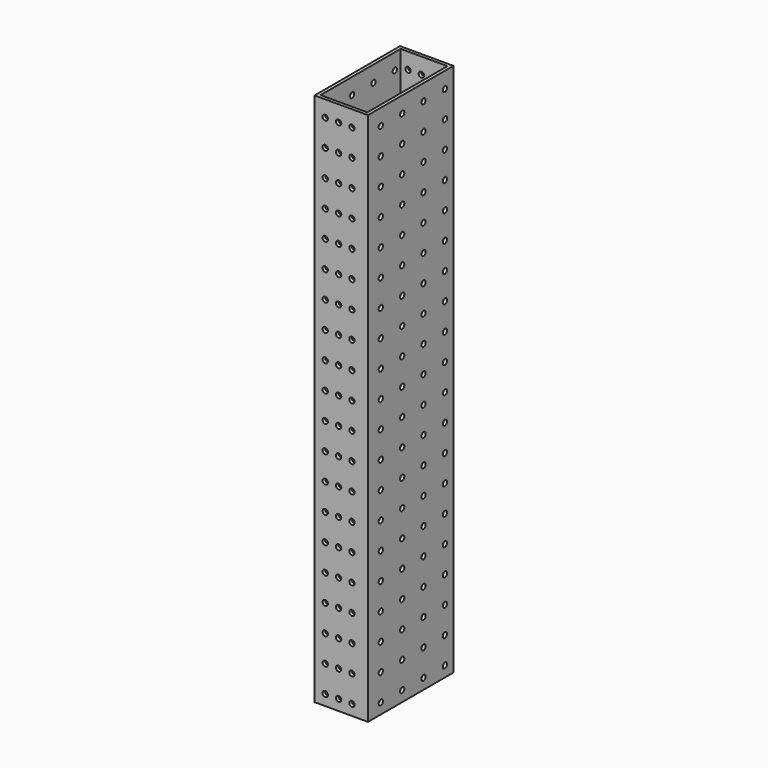
from build123d import *

# Parameters (mm, degrees)
F0_W     = 50.8
F0_H     = 101.6
F0_W_2   = 44.45
F0_H_2   = 95.25
F1_DEPTH = 508
F3_D     = 5.1054
F5_D     = 5.1054


with BuildPart() as f1:
    # F0 (on Top) → F1 (new body)
    with BuildSketch(Plane.XY):
        with Locations((-0.808182, 20.152631)):
            Rectangle(F0_W, F0_H)
        with Locations((-0.808182, 20.152631)):
            Rectangle(F0_W_2, F0_H_2, mode=Mode.SUBTRACT)
    extrude(amount=F1_DEPTH)

    # F3 (through all)
    with Locations(Plane.YZ.offset(24.591818)):
        with Locations((10.005331, 35.5473), (60.805331, 467.3473), (60.805331, 60.9473), (60.805331, 238.7473), (10.005331, 441.9473), (10.005331, 264.1473), (35.405331, 365.7473), (35.405331, 137.1473), (-15.394669, 314.9473), (60.805331, 35.5473), (60.805331, 441.9473), (60.805331, 213.3473), (35.405331, 111.7473), (10.005331, 10.1473), (10.005331, 416.5473), (35.405331, 340.3473), (10.005331, 238.7473), (-15.394669, 137.1473), (-15.394669, 289.5473), (60.805331, 187.9473), (35.405331, 86.3473), (10.005331, 391.1473), (35.405331, 314.9473), (10.005331, 213.3473), (-15.394669, 111.7473), (60.805331, 10.1473), (60.805331, 416.5473), (-15.394669, 391.1473), (-15.394669, 264.1473), (-15.394669, 365.7473), (60.805331, 162.5473), (-15.394669, 340.3473), (35.405331, 60.9473), (35.405331, 467.3473), (10.005331, 365.7473), (-15.394669, 492.7473), (35.405331, 492.7473), (60.805331, 492.7473), (-15.394669, 467.3473), (-15.394669, 441.9473), (-15.394669, 416.5473), (35.405331, 289.5473), (10.005331, 187.9473), (-15.394669, 86.3473), (60.805331, 391.1473), (-15.394669, 238.7473), (60.805331, 137.1473), (35.405331, 35.5473), (35.405331, 441.9473), (10.005331, 340.3473), (35.405331, 264.1473), (10.005331, 162.5473), (-15.394669, 60.9473), (60.805331, 365.7473), (-15.394669, 213.3473), (60.805331, 111.7473), (60.805331, 289.5473), (35.405331, 10.1473), (35.405331, 187.9473), (10.005331, 86.3473), (35.405331, 416.5473), (10.005331, 492.7473), (10.005331, 314.9473), (-15.394669, 162.5473), (60.805331, 314.9473), (-15.394669, 10.1473), (10.005331, 111.7473), (35.405331, 213.3473), (10.005331, 467.3473), (10.005331, 289.5473), (10.005331, 60.9473), (35.405331, 391.1473), (35.405331, 162.5473), (60.805331, 264.1473), (60.805331, 86.3473), (-15.394669, 187.9473), (60.805331, 340.3473), (-15.394669, 35.5473), (10.005331, 137.1473), (35.405331, 238.7473)):
            Hole(F3_D / 2)

    # F5 (through all)
    with Locations(Plane(origin=(0, 70.952631, 0), x_dir=(-1, 0, 0), z_dir=(0, 1, 0))):
        with Locations((16.060882, 238.7473), (-9.339118, 35.5473), (3.360882, 137.1473), (16.060882, 213.3473), (-9.339118, 10.1473), (3.360882, 111.7473), (16.060882, 162.5473), (3.360882, 467.3473), (3.360882, 60.9473), (16.060882, 187.9473), (3.360882, 86.3473), (16.060882, 111.7473), (3.360882, 416.5473), (3.360882, 10.1473), (-9.339118, 213.3473), (3.360882, 492.7473), (16.060882, 441.9473), (16.060882, 35.5473), (3.360882, 340.3473), (-9.339118, 467.3473), (-9.339118, 238.7473), (-9.339118, 264.1473), (-9.339118, 441.9473), (-9.339118, 391.1473), (-9.339118, 416.5473), (16.060882, 137.1473), (-9.339118, 340.3473), (3.360882, 441.9473), (3.360882, 35.5473), (-9.339118, 365.7473), (-9.339118, 289.5473), (-9.339118, 314.9473), (16.060882, 467.3473), (16.060882, 60.9473), (3.360882, 365.7473), (-9.339118, 492.7473), (16.060882, 86.3473), (3.360882, 391.1473), (16.060882, 492.7473), (16.060882, 416.5473), (16.060882, 10.1473), (3.360882, 314.9473), (16.060882, 365.7473), (-9.339118, 162.5473), (3.360882, 264.1473), (16.060882, 391.1473), (-9.339118, 187.9473), (3.360882, 289.5473), (16.060882, 314.9473), (-9.339118, 111.7473), (3.360882, 213.3473), (16.060882, 340.3473), (-9.339118, 137.1473), (3.360882, 238.7473), (16.060882, 264.1473), (-9.339118, 60.9473), (3.360882, 162.5473), (16.060882, 289.5473), (-9.339118, 86.3473), (3.360882, 187.9473)):
            Hole(F5_D / 2)


solid = f1.part
